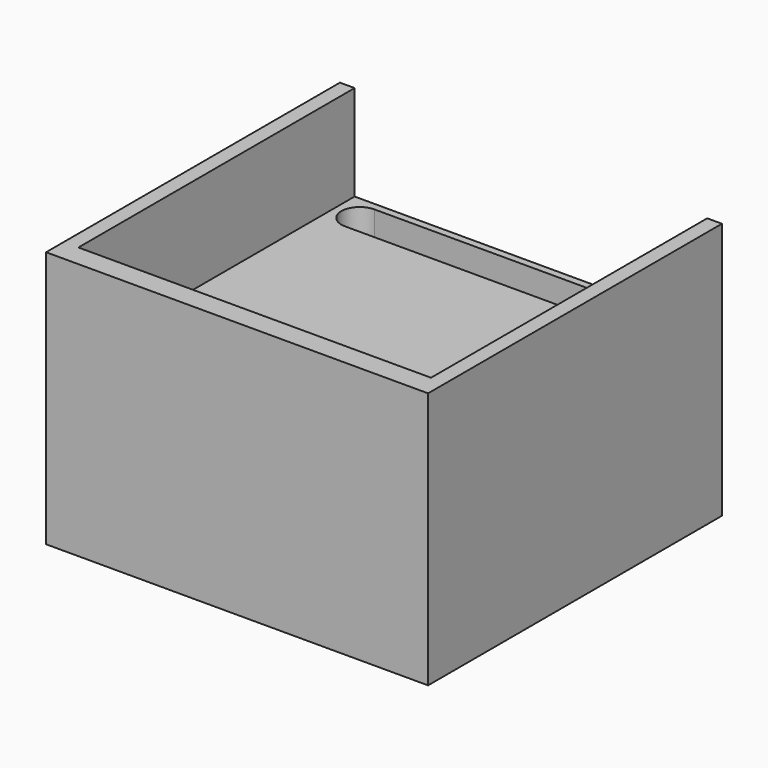
from build123d import *

# Parameters (mm, degrees)
F0_W     = 48
F0_H     = 47
F1_DEPTH = 4.5
F0_H_2   = 3
F2_DEPTH = 17.5


with BuildPart() as f1:
    # F0 (on Top) → F1 (new body, symmetric)
    with BuildSketch(Plane.XY):
        with Locations((0, 1.5)):
            Rectangle(F0_W, F0_H)
        with BuildLine():
            ThreePointArc((-20.5, 19), (-23, 21.5), (-20.5, 24))
            Line((-20.5, 24), (20.5, 24))
            ThreePointArc((20.5, 24), (22.267767, 23.267767), (23, 21.5))
            ThreePointArc((23, 21.5), (22.267767, 19.732233), (20.5, 19))
            Line((20.5, 19), (-20.5, 19))
        make_face(mode=Mode.SUBTRACT)
    extrude(amount=F1_DEPTH, both=True)

    # F0 (on Top) → F2 (join, symmetric)
    with BuildSketch(Plane.XY):
        Polygon((-24, 25), (-26, 25), (-26, -25), (-24, -25), (-24, -22), align=None)
        with Locations((0, -23.5)):
            Rectangle(F0_W, F0_H_2)
        Polygon((26, 25), (24, 25), (24, -22), (24, -25), (26, -25), align=None)
    extrude(amount=F2_DEPTH, both=True)


solid = f1.part
